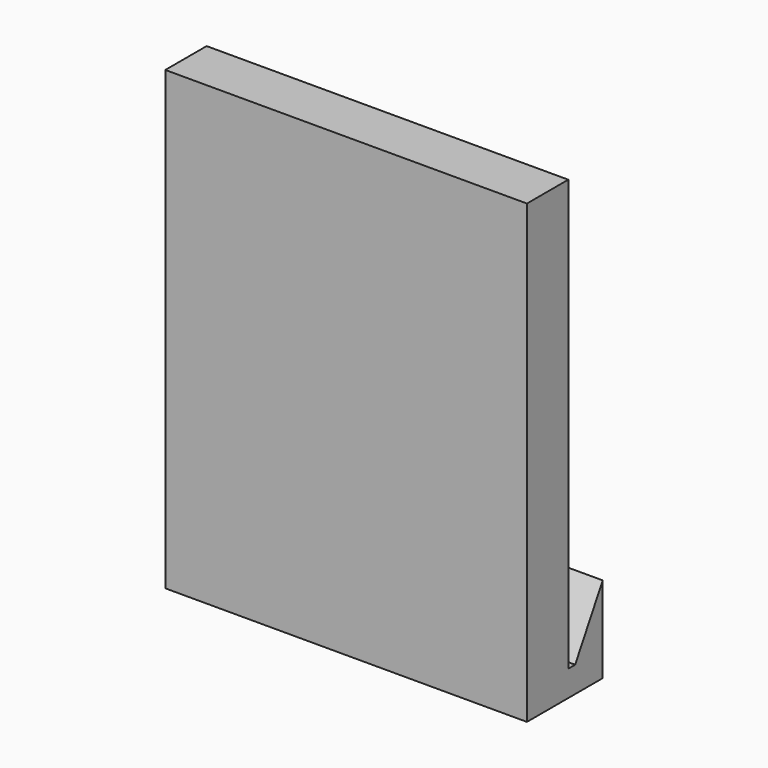
from build123d import *

# Parameters (mm, degrees)
F1_DEPTH = 1.5
F3_DEPTH = 25
F2_W     = 3
F2_H     = 2
F2_W_2   = 21
F2_H_2   = 3
F4_DEPTH = 3.5
F6_DEPTH = 127


with BuildPart() as f1:
    # F0 (on Top) → F1 (new body)
    with BuildSketch(Plane.XY):
        Polygon((0, 5.5), (0, 0), (21, 0), (21, 5.5), (18, 5.5), (18, 3), (3, 3), (3, 5.5), align=None)
    extrude(amount=F1_DEPTH)

    # F2 (on face) → F3 (join)
    with BuildSketch(Plane.XY.offset(1.5)):
        Polygon((3, 3), (0, 3), (0, 0), (21, 0), (21, 3), (18, 3), align=None)
    extrude(amount=F3_DEPTH)

    # F2 (on face) → F4 (join)
    with BuildSketch(Plane.XY.offset(1.5)):
        with Locations((1.5, 4.5)):
            Rectangle(F2_W, F2_H)
        with Locations((19.5, 4.5)):
            Rectangle(F2_W, F2_H)
        with Locations((10.5, 1.5)):
            Rectangle(F2_W_2, F2_H_2)
    extrude(amount=F4_DEPTH)

    # F5 (on face) → F6 (cut)
    with BuildSketch(Plane(origin=(0, 0, 0), x_dir=(0, -1, 0), z_dir=(-1, 0, 0))):
        Polygon((-3.5, 5), (-5.5, 5), (-3.5, 1.5), align=None)
    extrude(amount=-F6_DEPTH, mode=Mode.SUBTRACT)


solid = f1.part
